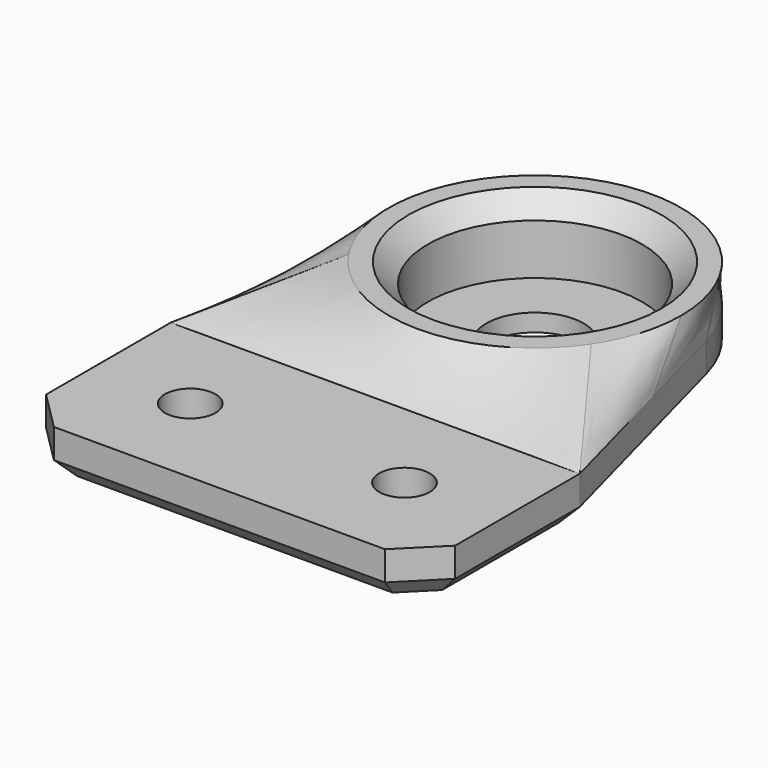
from build123d import *

# Parameters (mm, degrees)
PAD_DEPTH       = 5
SKETCH002_R     = 15
SKETCH003_R     = 11
POCKET_DEPTH    = 7.2
SKETCH004_R     = 5
POCKET001_DEPTH = 1.801
SKETCH005_R     = 2.6
POCKET002_DEPTH = 5.001
CHAMFER_SIZE    = 2
CHAMFER001_SIZE = 4
CHAMFER002_SIZE = 2


with BuildPart() as part:
    # Sketch → Pad (new body)
    with BuildSketch(Plane.XY):
        with BuildLine():
            Line((-21, 20), (-21, 0))
            Line((-21, 0), (21, 0))
            Line((21, 0), (21, 20))
            Line((14.492167, 44.370025), (21, 20))
            ThreePointArc((14.492167, 44.370025), (0, 55.5), (-14.492167, 44.370025))
            Line((-14.492167, 44.370025), (-21, 20))
        make_face()
    extrude(amount=PAD_DEPTH)

    # Sketch001 (on Face8 of Pad) → AdditiveLoft section 0
    with BuildSketch(Plane.XY.offset(5)):
        with BuildLine():
            Line((-21, 20), (21, 20))
            Line((21, 20), (14.492167, 44.370025))
            ThreePointArc((14.492167, 44.370025), (0, 55.5), (-14.492167, 44.370025))
            Line((-14.492167, 44.370025), (-21, 20))
        make_face()
    # Sketch002 (on DatumPlane) → AdditiveLoft section 1
    with BuildSketch(Plane.XY.offset(9)):
        with Locations((0, 40.5)):
            Circle(SKETCH002_R)
    loft()

    # Sketch003 (on Face12 of AdditiveLoft) → Pocket (cut)
    with BuildSketch(Plane.XY.offset(9)):
        with Locations((0, 40.5)):
            Circle(SKETCH003_R)
    extrude(amount=-POCKET_DEPTH, mode=Mode.SUBTRACT)

    # Sketch004 (on Face16 of Pocket) → Pocket001 (cut, through all)
    with BuildSketch(Plane.XY.offset(1.8)):
        with Locations((0, 40.5)):
            Circle(SKETCH004_R)
    extrude(amount=-POCKET001_DEPTH, mode=Mode.SUBTRACT)

    # Sketch005 (on Face14 of Pocket001) → Pocket002 (cut, through all)
    with BuildSketch(Plane.XY.offset(5)):
        with Locations((-11, 10)):
            Circle(SKETCH005_R)
        with Locations((11, 10)):
            Circle(SKETCH005_R)
    extrude(amount=-POCKET002_DEPTH, mode=Mode.SUBTRACT)

    # Chamfer
    chamfer_edges = [part.edges().sort_by_distance(p)[0] for p in [
        (-11, 40.5, 9),
    ]]
    chamfer(chamfer_edges, length=CHAMFER_SIZE)

    # Chamfer001
    chamfer001_edges = [part.edges().sort_by_distance(p)[0] for p in [
        (21, 0, 2.5),
        (-21, 0, 2.5),
    ]]
    chamfer(chamfer001_edges, length=CHAMFER001_SIZE)

    # Chamfer002
    chamfer002_edges = [part.edges().sort_by_distance(p)[0] for p in [
        (-19, 2, 0),
        (0, 0, 0),
        (19, 2, 0),
        (21, 12, 0),
        (17.746084, 32.185012, 0),
        (0, 55.5, 0),
        (-17.746084, 32.185012, 0),
        (-21, 12, 0),
    ]]
    chamfer(chamfer002_edges, length=CHAMFER002_SIZE)


solid = part.part
